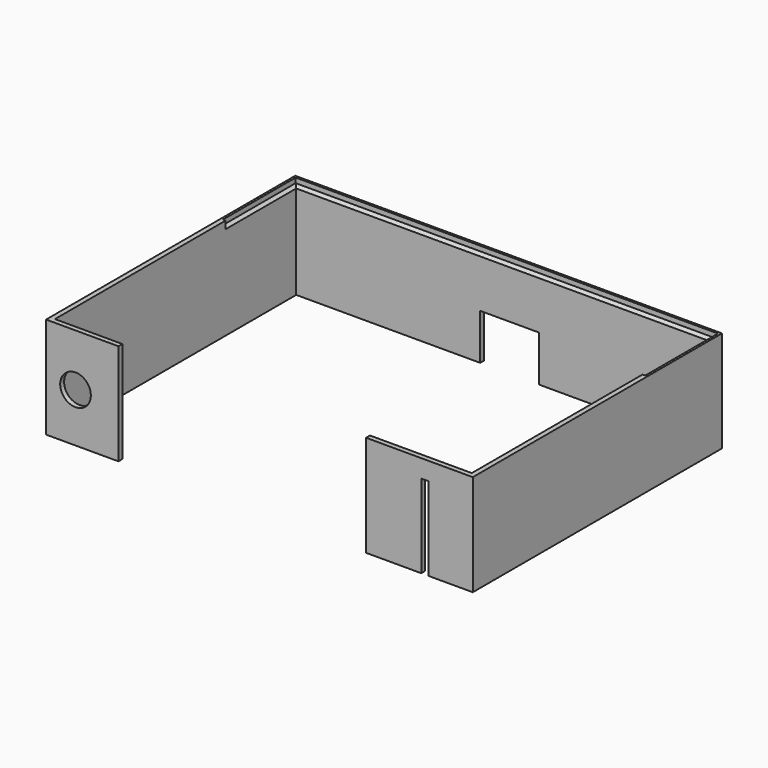
from build123d import *

# Parameters (mm, degrees)
SKETCH147_W      = 3
SKETCH147_H      = 38.397224
EXTRUDE135_DEPTH = 7
SKETCH155_W      = 172
SKETCH155_H      = 37
EXTRUDE141_DEPTH = 3
SKETCH157_W      = 24
SKETCH157_H      = 21.68
EXTRUDE143_DEPTH = 4
SKETCH135_R      = 6.25
EXTRUDE123_DEPTH = 5
SKETCH_W         = 2
SKETCH_H         = 41.32


with BuildPart() as extrude135:
    # Sketch147 → Extrude135 (new body)
    with BuildSketch(Plane(origin=(0, 177, -3), x_dir=(1, 0, 0), z_dir=(0, -1, 0))):
        with Locations((345.5, -16.198612)):
            Rectangle(SKETCH147_W, SKETCH147_H)
    extrude(amount=-EXTRUDE135_DEPTH)


with BuildPart() as clamshell001:
    # Sketch155 → Extrude141 (new body)
    with BuildSketch(Plane.XY.offset(5.32)):
        with Locations((278, 287.5)):
            Rectangle(SKETCH155_W, SKETCH155_H)
    extrude(amount=EXTRUDE141_DEPTH)


with BuildPart() as extrude143:
    # Sketch157 → Extrude143 (new body)
    with BuildSketch(Plane(origin=(0, 304, 0), x_dir=(-1, 0, 0), z_dir=(0, 1, 0))):
        with Locations((-280, -26.16)):
            Rectangle(SKETCH157_W, SKETCH157_H)
    extrude(amount=EXTRUDE143_DEPTH)


with BuildPart() as clamshell002:
    # Sweep002: sweep along a path in Sketch166
    with BuildLine(Plane.XY.offset(6)) as sweep002_path:
        Line((192, 269), (192, 306))
        Line((192, 306), (364, 306))
        Line((364, 306), (364, 269))
    # Sketch165 → Sweep002 (sweep)
    with BuildSketch(Plane.YZ.offset(230)):
        Polygon((306.1, 5.32), (304.1, 3.32), (304.1, 8.32), (306.1, 8.32), align=None)
    sweep(path=sweep002_path.line, transition=Transition.RIGHT)


with BuildPart() as compound028:
    # Sketch135 → Extrude123 (new body)
    with BuildSketch(Plane.XZ.offset(-178)):
        with Locations((203, -14)):
            Circle(SKETCH135_R)
    extrude(amount=-EXTRUDE123_DEPTH)

    # Compound028: union Extrude135, clamshell001, Extrude143, clamshell002
    add(extrude135.part)
    add(clamshell001.part)
    add(extrude143.part)
    add(clamshell002.part)


with BuildPart() as walls:
    # Sweep: sweep along a path in Sketch133
    with BuildLine(Plane(origin=(0, 0, 5.32), x_dir=(1, 0, 0), z_dir=(0, 0, -1))) as sweep_path:
        Line((220.5, -182), (193, -182))
        Line((193, -182), (193, -305))
        Line((193, -305), (363, -305))
        Line((363, -305), (363, -182))
        Line((363, -182), (321.5, -182))
    # Sketch → Sweep (sweep)
    with BuildSketch(Plane(origin=(194, 0, 0), x_dir=(0, -1, 0), z_dir=(-1, 0, 0))):
        with Locations((-181, -13.34)):
            Rectangle(SKETCH_W, SKETCH_H)
    sweep(path=sweep_path.line, transition=Transition.RIGHT)

    # Cut: cut Compound028
    add(compound028.part, mode=Mode.SUBTRACT)


solid = walls.part
